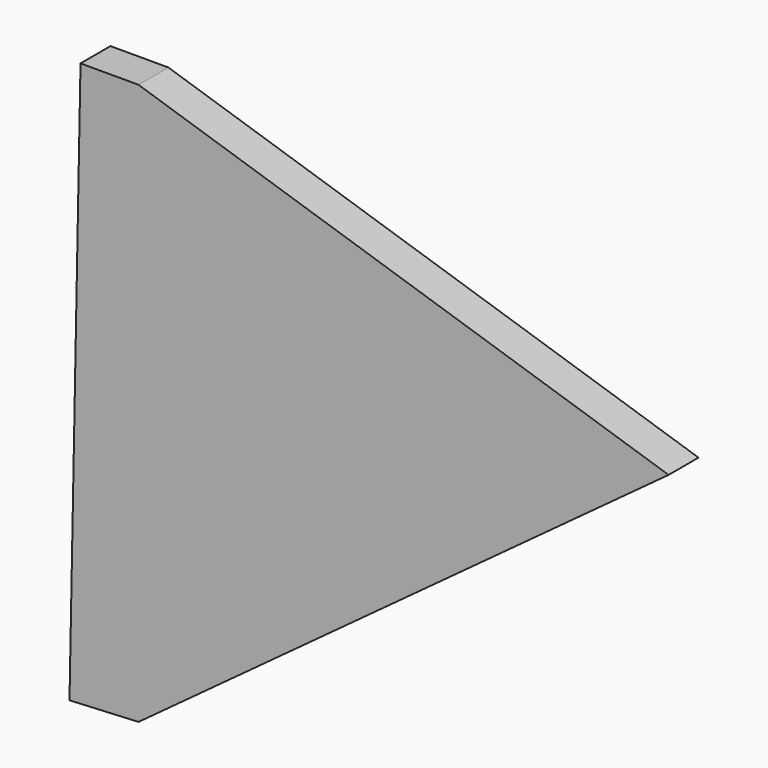
from build123d import *

# Parameters (mm, degrees)
F1_DEPTH = 10.16


with BuildPart() as f1:
    # F0 (on Front) → F1 (new body)
    with BuildSketch(Plane.XZ):
        Polygon((77.312857, 29.377943), (-66.610858, 75.829513), (-66.610858, -76.470718), align=None)
        Polygon((-66.610858, -76.470718), (-66.610858, 75.829513), (-82.36368, 75.829513), (-85.360639, -77.400185), align=None)
    extrude(amount=F1_DEPTH)


solid = f1.part
